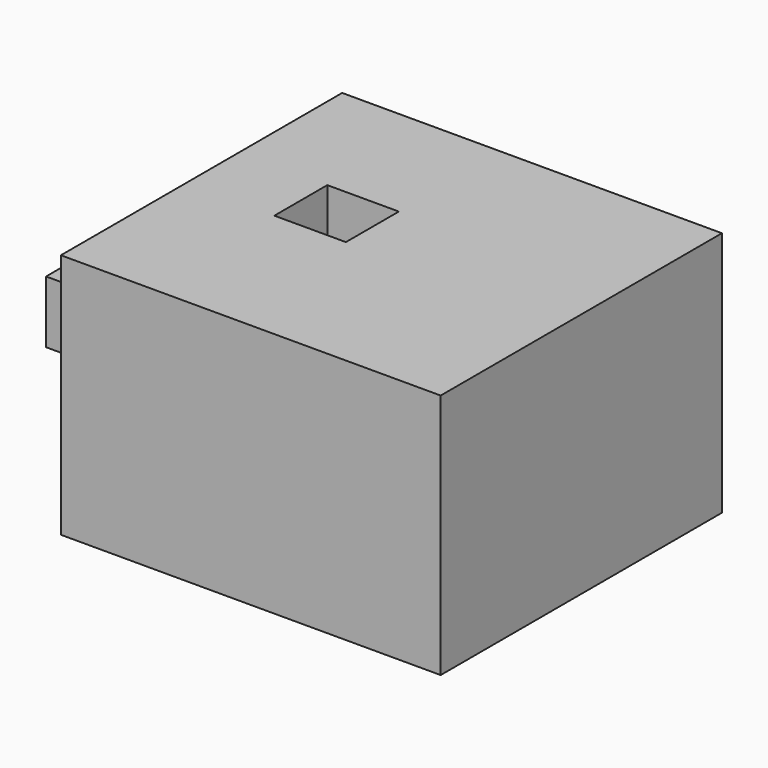
from build123d import *

# Parameters (mm, degrees)
F0_W     = 77.6073
F0_H     = 71.840811
F0_W_2   = 14.62318
F0_H_2   = 13.52061
F1_DEPTH = 50.292
F2_W     = 39.164056
F2_H     = 12.734323
F3_DEPTH = 96.012


with BuildPart() as f1:
    # F0 (on Top) → F1 (new body)
    with BuildSketch(Plane.XY):
        with Locations((6.126894, 3.96446)):
            Rectangle(F0_W, F0_H)
        with Locations((-7.31159, 6.760305)):
            Rectangle(F0_W_2, F0_H_2, mode=Mode.SUBTRACT)
    extrude(amount=F1_DEPTH)

    # F2 (on face) → F3 (join)
    with BuildSketch(Plane.YZ.offset(44.930544)):
        with Locations((6.847703, 26.309594)):
            Rectangle(F2_W, F2_H)
    extrude(amount=-F3_DEPTH)


solid = f1.part
